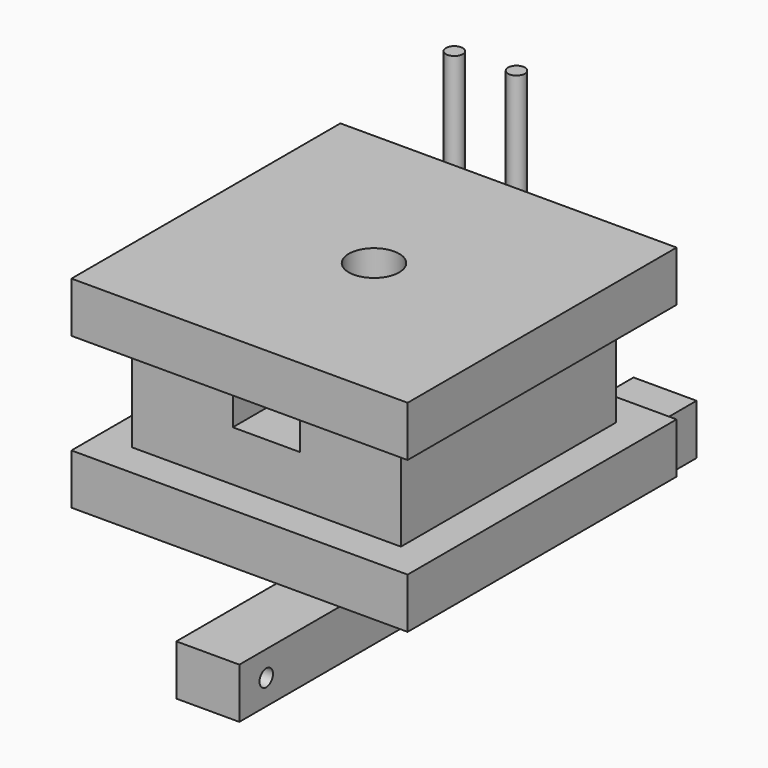
from build123d import *

# Parameters (mm, degrees)
F1_DEPTH  = 127
F2_W      = 101.6
F2_H      = 38.1
F3_DEPTH  = 12.7
F4_W      = 101.6
F4_H      = 38.1
F5_DEPTH  = 12.7
F6_W      = 25.4
F6_H      = 19.05
F7_DEPTH  = 101.6
F8_R      = 9.525
F9_DEPTH  = 25.4
F11_DEPTH = 23.8125
F12_R     = 3.175
F13_DEPTH = 63.5
F14_R     = 3.175
F15_DEPTH = 25.4


with BuildPart() as f1:
    # F0 (on Front) → F1 (new body)
    with BuildSketch(Plane.XZ):
        Polygon((72.8346217871, 62.0580464602), (-54.1653782129, 62.0580464602), (-54.1653782129, 43.0080464602), (-41.4653782129, 43.0080464602), (-41.4653782129, 4.9080464602), (-54.1653782129, 4.9080464602), (-54.1653782129, -14.1419535398), (72.8346217871, -14.1419535398), (72.8346217871, 4.9080464602), (60.1346217871, 4.9080464602), (60.1346217871, 43.0080464602), (72.8346217871, 43.0080464602), align=None)
    extrude(amount=F1_DEPTH)

    # F2 (on face) → F3 (cut)
    with BuildSketch(Plane.XZ.offset(127)):
        with Locations((9.3346217871, 23.9580464602)):
            Rectangle(F2_W, F2_H)
    extrude(amount=-F3_DEPTH, mode=Mode.SUBTRACT)

    # F4 (on face) → F5 (cut)
    with BuildSketch(Plane(origin=(0, 0, 0), x_dir=(-1, 0, 0), z_dir=(0, 1, 0))):
        with Locations((-9.3346217871, 23.9580464602)):
            Rectangle(F4_W, F4_H)
    extrude(amount=-F5_DEPTH, mode=Mode.SUBTRACT)

    # F6 (on face) → F7 (cut)
    with BuildSketch(Plane.XZ.offset(114.3)):
        with Locations((9.3346217871, 33.4830464602)):
            Rectangle(F6_W, F6_H)
    extrude(amount=-F7_DEPTH, mode=Mode.SUBTRACT)

    # F8 (on face) → F9 (cut)
    with BuildSketch(Plane.XY.offset(62.0580464602)):
        with Locations((9.3346217871, -63.5)):
            Circle(F8_R)
    extrude(amount=-F9_DEPTH, mode=Mode.SUBTRACT)


with BuildPart() as f11:
    # F10 (on Right) → F11 (new body)
    with BuildSketch(Plane.YZ):
        Polygon((70.7171371222, -52.632534641), (70.7171371222, -33.582534641), (-56.2828628778, -33.582534641), (-62.6328628778, -43.107534641), (-75.3328628778, -43.107534641), (-81.6828628778, -33.582534641), (-145.1828628778, -33.582534641), (-145.1828628778, -52.632534641), align=None)
    extrude(amount=F11_DEPTH)

    # F14 (on face) → F15 (cut)
    with BuildSketch(Plane.YZ.offset(23.8125)):
        with Locations((-132.4828628778, -43.107534641)):
            Circle(F14_R)
        with Locations((58.0171371222, -43.107534641)):
            Circle(F14_R)
    extrude(amount=-F15_DEPTH, mode=Mode.SUBTRACT)


with BuildPart() as f13:
    # F12 (on Top) → F13 (new body)
    with BuildSketch(Plane.XY):
        with Locations((-55.041719228, 54.9050159752)):
            Circle(F12_R)
    extrude(amount=F13_DEPTH)


with BuildPart() as f13b:
    # F12 (on Top) → F13, piece 2 (new body)
    with BuildSketch(Plane.XY):
        with Locations((-32.9244509339, 56.6063374281)):
            Circle(F12_R)
    extrude(amount=F13_DEPTH)


solid = Compound([f1.part, f11.part, f13.part, f13b.part])
